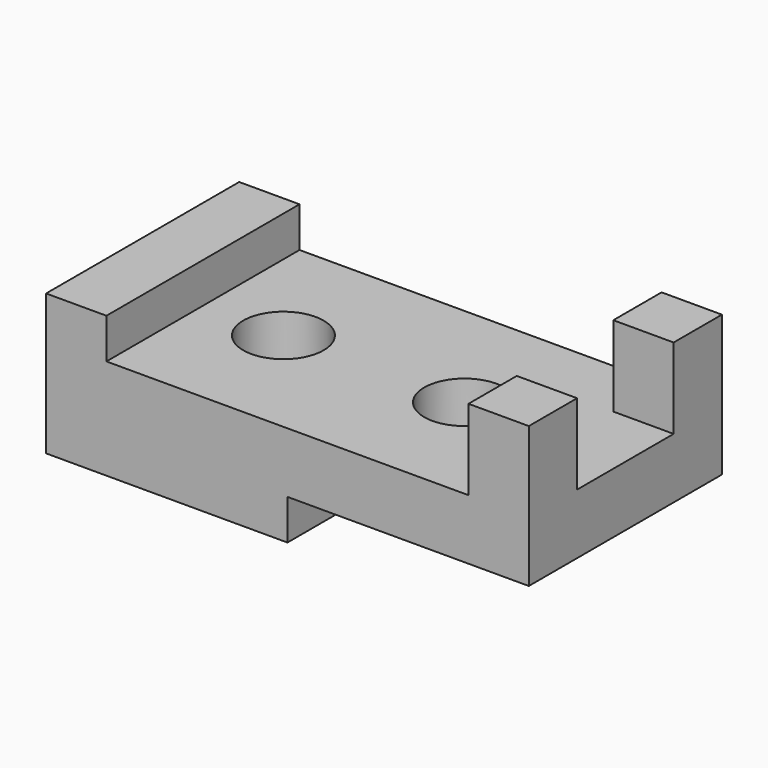
from build123d import *

# Parameters (mm, degrees)
SKETCH_W        = 120
SKETCH_H        = 60
PAD_DEPTH       = 35
SKETCH001_W     = 122.740021
SKETCH001_H     = 89.853363
POCKET_DEPTH    = 10
SKETCH002_W     = 72.220016
SKETCH002_H     = 101.200035
POCKET001_DEPTH = 10
SKETCH003_W     = 15
SKETCH003_H     = 15
PAD001_DEPTH    = 20
SKETCH004_R     = 10
POCKET002_DEPTH = 25.001


with BuildPart() as part:
    # Sketch → Pad (new body)
    with BuildSketch(Plane.XY):
        Rectangle(SKETCH_W, SKETCH_H)
    extrude(amount=PAD_DEPTH)

    # Sketch001 → Pocket (cut)
    with BuildSketch(Plane.XY.offset(35)):
        with Locations((16.37001, -4.44667)):
            Rectangle(SKETCH001_W, SKETCH001_H)
    extrude(amount=-POCKET_DEPTH, mode=Mode.SUBTRACT)

    # Sketch002 → Pocket001 (cut)
    with BuildSketch(Plane(origin=(0, 0, 0), x_dir=(1, 0, 0), z_dir=(0, 0, -1))):
        with Locations((36.110008, 2.760006)):
            Rectangle(SKETCH002_W, SKETCH002_H)
    extrude(amount=-POCKET001_DEPTH, mode=Mode.SUBTRACT)

    # Sketch003 → Pad001 (new body)
    with BuildSketch(Plane.XY.offset(25)):
        with Locations((52.5, 22.5)):
            Rectangle(SKETCH003_W, SKETCH003_H)
        with Locations((52.5, -22.5)):
            Rectangle(SKETCH003_W, SKETCH003_H)
    extrude(amount=PAD001_DEPTH)

    # Sketch004 → Pocket002 (cut, through all)
    with BuildSketch(Plane.XY.offset(25)):
        with Locations((-25, 0)):
            Circle(SKETCH004_R)
        with Locations((20, 0)):
            Circle(SKETCH004_R)
    extrude(amount=-POCKET002_DEPTH, mode=Mode.SUBTRACT)


solid = part.part
